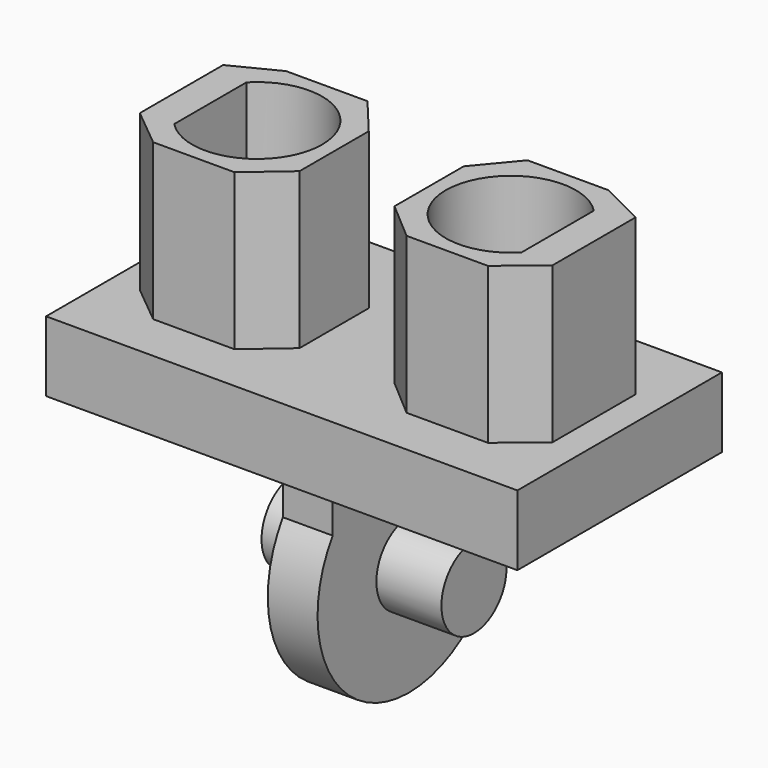
from build123d import *

# Parameters (mm, degrees)
F0_W     = 14.49
F0_H     = 7.86
F1_DEPTH = 2.16
F2_W     = 1.53
F2_H     = 7.86
F3_DEPTH = 7.02
F5_DEPTH = 8.011
F4_R     = 1.25
F6_DEPTH = 2
F9_DEPTH = 4.79


with BuildPart() as f1:
    # F0 (on Top) → F1 (new body)
    with BuildSketch(Plane.XY):
        Rectangle(F0_W, F0_H)
    extrude(amount=-F1_DEPTH)

    # F2 (on face) → F3 (join)
    with BuildSketch(Plane(origin=(0, 0, -2.16), x_dir=(1, 0, 0), z_dir=(0, 0, -1))):
        Rectangle(F2_W, F2_H)
    extrude(amount=F3_DEPTH)

    # F4 (on face) → F5 (cut, through all)
    with BuildSketch(Plane.YZ.offset(0.765)):
        with BuildLine():
            Line((-3.93, -9.18), (0, -9.18))
            ThreePointArc((0, -9.18), (-3.090612, -7.333797), (-2.93, -3.737333))
            Line((-2.93, -3.737333), (-2.93, -2.16))
            Line((-2.93, -2.16), (-3.93, -2.16))
            Line((-3.93, -2.16), (-3.93, -9.18))
        make_face()
        with BuildLine():
            ThreePointArc((2.93, -3.737333), (3.361874, -4.66109), (3.51, -5.67))
            ThreePointArc((3.51, -5.67), (2.481945, -8.151945), (0, -9.18))
            Line((0, -9.18), (3.93, -9.18))
            Line((3.93, -9.18), (3.93, -2.16))
            Line((3.93, -2.16), (2.93, -2.16))
            Line((2.93, -2.16), (2.93, -3.737333))
        make_face()
    extrude(amount=-F5_DEPTH, mode=Mode.SUBTRACT)

    # F4 (on face) → F6 (join)
    with BuildSketch(Plane.YZ.offset(0.765)):
        with Locations((0, -5.67)):
            Circle(F4_R)
    extrude(amount=F6_DEPTH)

    # F7: F1 across plane


with BuildPart() as f1_1:
    add(f1.part)
    add(f1.part.mirror(Plane.YZ))

    # F8 (on face) → F9 (join)
    with BuildSketch(Plane.XY):
        Polygon((4.95944, 2.44), (2.45944, 2.44), (1.46, 1.238976), (1.46, -1.421024), (2.644494, -2.44), (5.144494, -2.44), (6.34, -1.458122), (6.34, 1.741878), align=None)
        with BuildLine():
            ThreePointArc((5.34, 1.387948), (5.754724, 0.748331), (5.9, 0))
            ThreePointArc((5.9, 0), (5.754724, -0.748331), (5.34, -1.387948))
            ThreePointArc((5.34, -1.387948), (1.9, 0), (5.34, 1.387948))
        make_face(mode=Mode.SUBTRACT)
        with BuildLine():
            ThreePointArc((5.34, -1.387948), (5.754724, -0.748331), (5.9, 0))
            ThreePointArc((5.9, 0), (5.754724, 0.748331), (5.34, 1.387948))
            Line((5.34, 1.387948), (5.34, -1.387948))
        make_face()
    extrude(amount=F9_DEPTH)

    # F10: F1 across plane


with BuildPart() as f1_2:
    add(f1_1.part)
    add(f1_1.part.mirror(Plane.YZ))


solid = f1_2.part
